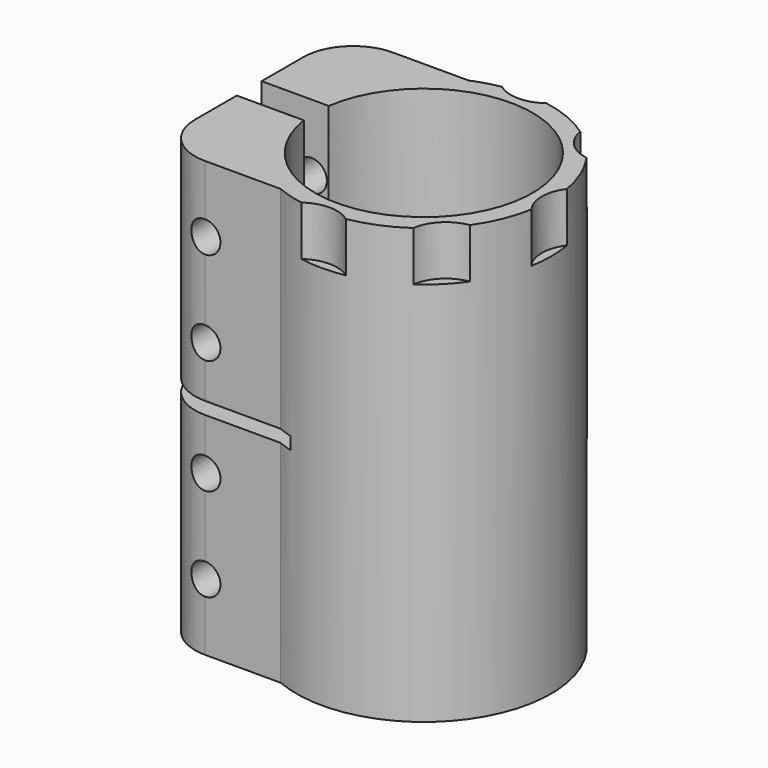
from build123d import *

# Parameters (mm, degrees)
F1_DEPTH       = 35
F3_D           = 5
F3_START       = 1.7550021
F3_CBORE_D     = 10
F3_CBORE_DEPTH = 8
F4_W           = 22.4
F4_H           = 2
F5_DEPTH       = 25
F7_DEPTH       = 8


with BuildPart() as f1:
    # F0 (on Top) → F1 (new body, symmetric)
    with BuildSketch(Plane.XY):
        with BuildLine():
            ThreePointArc((-17.3192642082, 2.5086026559), (17.5, 0), (-17.3192642082, -2.5086026559))
            Line((-17.3192642082, -2.5086026559), (-28.1192642082, -2.5086026559))
            Line((-28.1192642082, -2.5086026559), (-28.1192642082, -10.9086026559))
            ThreePointArc((-28.1192642082, -10.9086026559), (-25.7761184577, -16.5654569054), (-20.1192642082, -18.9086026559))
            Line((-20.1192642082, -18.9086026559), (-7.9192642082, -18.9086026559))
            ThreePointArc((-7.9192642082, -18.9086026559), (20.5, 0), (-7.9192642082, 18.9086026559))
            Line((-7.9192642082, 18.9086026559), (-20.1192642082, 18.9086026559))
            ThreePointArc((-20.1192642082, 18.9086026559), (-25.7761184577, 16.5654569054), (-28.1192642082, 10.9086026559))
            Line((-28.1192642082, 10.9086026559), (-28.1192642082, 2.5086026559))
            Line((-28.1192642082, 2.5086026559), (-17.3192642082, 2.5086026559))
        make_face()
    extrude(amount=F1_DEPTH, both=True)

    # F3 (through all)
    # its depths count from where the whole tool has entered the part; down to there all is cleared
    with Locations(Plane(origin=(0, 18.9086026559, 0), x_dir=(-1, 0, 0), z_dir=(0, 1, 0)).offset(-F3_START)):
        with Locations((20.1192642082, -24.25), (20.1192642082, -9.25), (20.1192642082, 9.25), (20.1192642082, 24.25)):
            CounterBoreHole(F3_D / 2, F3_CBORE_D / 2, F3_CBORE_DEPTH)

    # F4 (on Front) → F5 (cut, symmetric)
    with BuildSketch(Plane.XZ):
        with Locations((-16.9192642082, 0)):
            Rectangle(F4_W, F4_H)
    extrude(amount=F5_DEPTH, both=True, mode=Mode.SUBTRACT)

    # F6 (on face) → F7 (cut)
    with BuildSketch(Plane.XY.offset(35)):
        with BuildLine():
            ThreePointArc((-3.5799127084, -20.185), (0, -20.5), (3.5799127084, -20.185))
            ThreePointArc((3.5799127084, -20.185), (0, -19), (-3.5799127084, -20.185))
        make_face()
        with BuildLine():
            ThreePointArc((16.8043309304, -11.7415698261), (13.4350288425, -13.4350288425), (11.7415698261, -16.8043309304))
            ThreePointArc((11.7415698261, -16.8043309304), (14.4956890143, -14.4956890143), (16.8043309304, -11.7415698261))
        make_face()
        with BuildLine():
            ThreePointArc((20.185, 3.5799127084), (19, 0), (20.185, -3.5799127084))
            ThreePointArc((20.185, -3.5799127084), (20.5, 0), (20.185, 3.5799127084))
        make_face()
        with BuildLine():
            ThreePointArc((11.7415698261, 16.8043309304), (14.4956890143, 14.4956890143), (16.8043309304, 11.7415698261))
            ThreePointArc((16.8043309304, 11.7415698261), (21.5994018258, 13.1367427743), (23.6776695297, 17.6776695297))
            ThreePointArc((23.6776695297, 17.6776695297), (17.2398329286, 23.6616731318), (11.7415698261, 16.8043309304))
        make_face()
        with BuildLine():
            ThreePointArc((-3.5799127084, 20.185), (0, 20.5), (3.5799127084, 20.185))
            ThreePointArc((3.5799127084, 20.185), (5.3609456372, 22.305512688), (6, 25))
            ThreePointArc((6, 25), (-2.694487312, 30.3609456372), (-3.5799127084, 20.185))
        make_face()
        with BuildLine():
            ThreePointArc((-3.5799127084, 20.185), (0, 19), (3.5799127084, 20.185))
            ThreePointArc((3.5799127084, 20.185), (0, 20.5), (-3.5799127084, 20.185))
        make_face()
        with BuildLine():
            ThreePointArc((11.7415698261, 16.8043309304), (13.4350288425, 13.4350288425), (16.8043309304, 11.7415698261))
            ThreePointArc((16.8043309304, 11.7415698261), (14.4956890143, 14.4956890143), (11.7415698261, 16.8043309304))
        make_face()
        with BuildLine():
            ThreePointArc((20.185, 3.5799127084), (20.5, 0), (20.185, -3.5799127084))
            ThreePointArc((20.185, -3.5799127084), (26.8854707635, -5.6960512638), (31, 0))
            ThreePointArc((31, 0), (26.8854707635, 5.6960512638), (20.185, 3.5799127084))
        make_face()
        with BuildLine():
            ThreePointArc((16.8043309304, -11.7415698261), (14.4956890143, -14.4956890143), (11.7415698261, -16.8043309304))
            ThreePointArc((11.7415698261, -16.8043309304), (17.2398329286, -23.6616731318), (23.6776695297, -17.6776695297))
            ThreePointArc((23.6776695297, -17.6776695297), (21.5994018258, -13.1367427743), (16.8043309304, -11.7415698261))
        make_face()
        with BuildLine():
            ThreePointArc((-3.5799127084, -20.185), (-2.694487312, -30.3609456372), (6, -25))
            ThreePointArc((6, -25), (5.3609456372, -22.305512688), (3.5799127084, -20.185))
            ThreePointArc((3.5799127084, -20.185), (0, -20.5), (-3.5799127084, -20.185))
        make_face()
    extrude(amount=-F7_DEPTH, mode=Mode.SUBTRACT)


solid = f1.part
